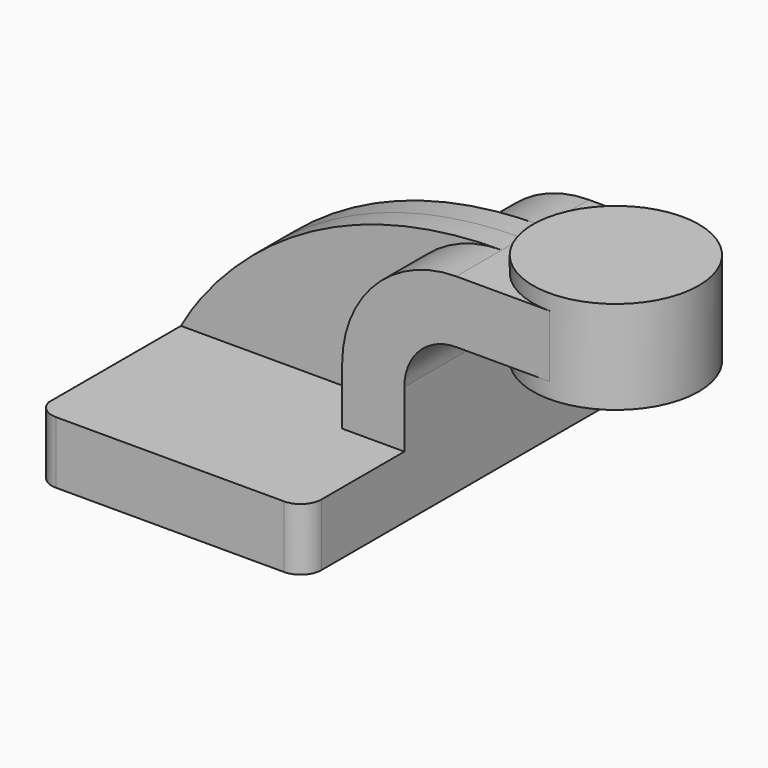
from build123d import *

# Parameters (mm, degrees)
F1_DEPTH = 63.5
F2_DEPTH = 25.4
F3_DEPTH = 7.9375
F0_W     = 25.4
F0_H     = 19.05
F4_DEPTH = 25.4
F6_R     = 6.35


with BuildPart() as f1:
    # F0 (on Front) → F1 (new body, symmetric)
    with BuildSketch(Plane.XZ):
        with BuildLine():
            Line((-41.275, 9.2450247044), (-41.275, -9.525))
            Line((-41.275, -9.525), (41.275, -9.525))
            Line((41.275, -9.525), (41.275, 9.525))
            Line((41.275, 9.525), (22.225, 9.525))
            Line((22.225, 9.525), (-41.1268438883, 9.525))
            add(Edge.make_bspline(
                [(-41.275, 9.2450247044), (-41.2721793897, 9.2493286898), (-41.2526024622, 9.2855029924), (-41.1980769813, 9.3907074254), (-41.1268438883, 9.525)],
                knots=[0.0426221028, 0.0426221028, 0.0426221028, 0.0426221028, 0.0482250452, 0.0779432741, 0.0779432741, 0.0779432741, 0.0779432741], degree=3))
        make_face()
    extrude(amount=F1_DEPTH, both=True)

    # F0 (on Front) → F2 (join, symmetric)
    with BuildSketch(Plane.XZ):
        with BuildLine():
            Line((22.225, 9.525), (41.275, 9.525))
            Line((41.275, 9.525), (41.275, 27.0002))
            ThreePointArc((41.275, 27.0002), (45.9246798487, 38.2255201513), (57.15, 42.8752))
            Line((57.15, 42.8752), (60.325, 42.8752))
            Line((60.325, 42.8752), (60.325, 61.9252))
            Line((60.325, 61.9252), (57.15, 61.9252))
            ThreePointArc((57.15, 61.9252), (32.4542956671, 51.6959043329), (22.225, 27.0002))
            Line((22.225, 27.0002), (22.225, 9.525))
        make_face()
    extrude(amount=F2_DEPTH, both=True)

    # F0 (on Front) → F3 (join, symmetric)
    with BuildSketch(Plane.XZ):
        with BuildLine():
            add(Edge.make_bspline(
                [(-41.1268438883, 9.525), (-38.9167205077, 13.6916470796), (-12.2967160163, 61.9252), (57.15, 61.9252)],
                knots=[0.0779432741, 0.0779432741, 0.0779432741, 0.0779432741, 1, 1, 1, 1], degree=3))
            Line((-41.1268438883, 9.525), (22.225, 9.525))
            Line((22.225, 9.525), (22.225, 27.0002))
            ThreePointArc((22.225, 27.0002), (32.4542956671, 51.6959043329), (57.15, 61.9252))
        make_face()
    extrude(amount=F3_DEPTH, both=True)

    # F0 (on Front) → F4 (join, symmetric)
    with BuildSketch(Plane.XZ):
        with Locations((73.025, 52.4002)):
            Rectangle(F0_W, F0_H)
    extrude(amount=F4_DEPTH, both=True)

    # F0 (on Front) → F5 (revolve)
    with BuildSketch(Plane.XZ):
        Polygon((85.725, 66.675), (85.725, 61.9252), (85.725, 42.8752), (85.725, 38.1), (111.125, 38.1), (111.125, 66.675), align=None)
    revolve(axis=Axis((85.725, 0, 52.3875), (0, 0, 1)))

    # F6
    f6_edges = [f1.edges().sort_by_distance(p)[0] for p in [
        (41.275, -63.5, 0),
        (-41.275, -63.5, -0.139988),
        (-41.275, 63.5, -0.139988),
        (41.275, 63.5, 0),
    ]]
    fillet(f6_edges, radius=F6_R)


solid = f1.part
